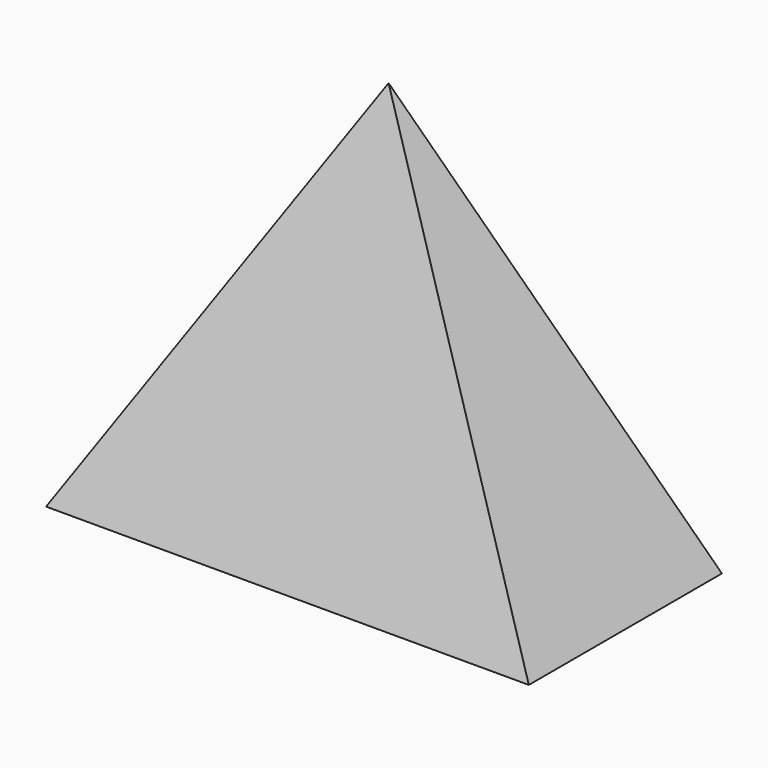
from build123d import *

# Parameters (mm, degrees)
F0_W = 63.5
F0_H = 31.75


with BuildPart() as f2:
    # F0 (on Top) → F2 section 0
    with BuildSketch(Plane.XY, mode=Mode.PRIVATE) as f2_s0:
        with Locations((-0.232072, -0.464143)):
            Rectangle(F0_W, F0_H)
    loft([f2_s0.sketch, Vertex(0, 0, 52.8066)])


solid = f2.part
